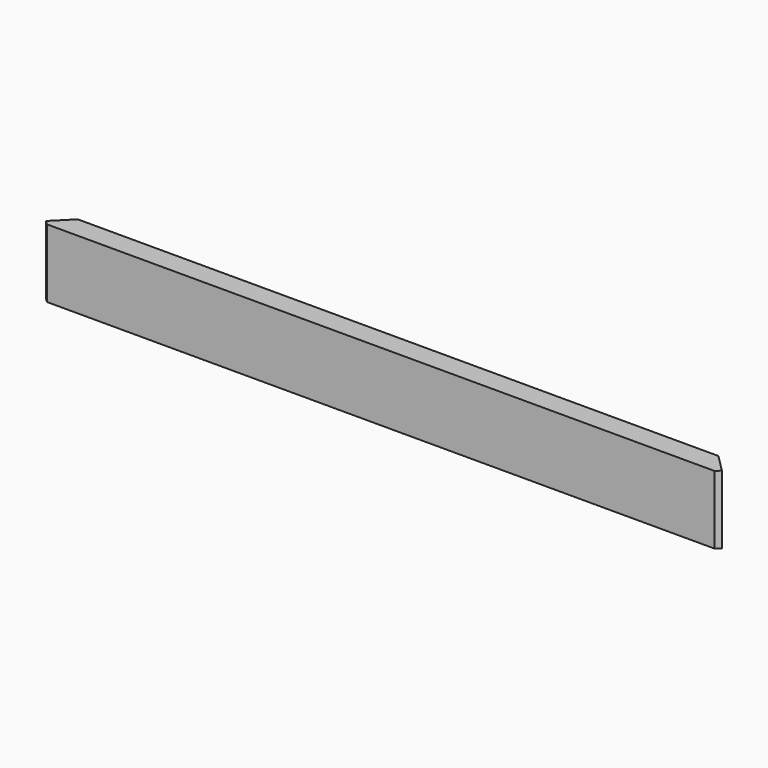
from build123d import *

# Parameters (mm, degrees)
F1_DEPTH = 60
F2_DEPTH = 6


with BuildPart() as f1:
    # F0 (on Top) → F1 (new body)
    with BuildSketch(Plane.XY):
        Polygon((0, 9.5), (0, 0), (292.9289321881, 0), (296.4644660941, 3.5355339059), (290.5, 9.5), align=None)
        Polygon((0, 19), (0, 9.5), (290.5, 9.5), (281, 19), align=None)
    extrude(amount=F1_DEPTH)

    # F0 (on Top) → F2 (cut)
    with BuildSketch(Plane.XY):
        Polygon((0, 19), (0, 9.5), (290.5, 9.5), (281, 19), align=None)
    extrude(amount=F2_DEPTH, mode=Mode.SUBTRACT)

    # F3: F1 across plane


with BuildPart() as f1_1:
    add(f1.part)
    add(f1.part.mirror(Plane.YZ))


solid = f1_1.part
